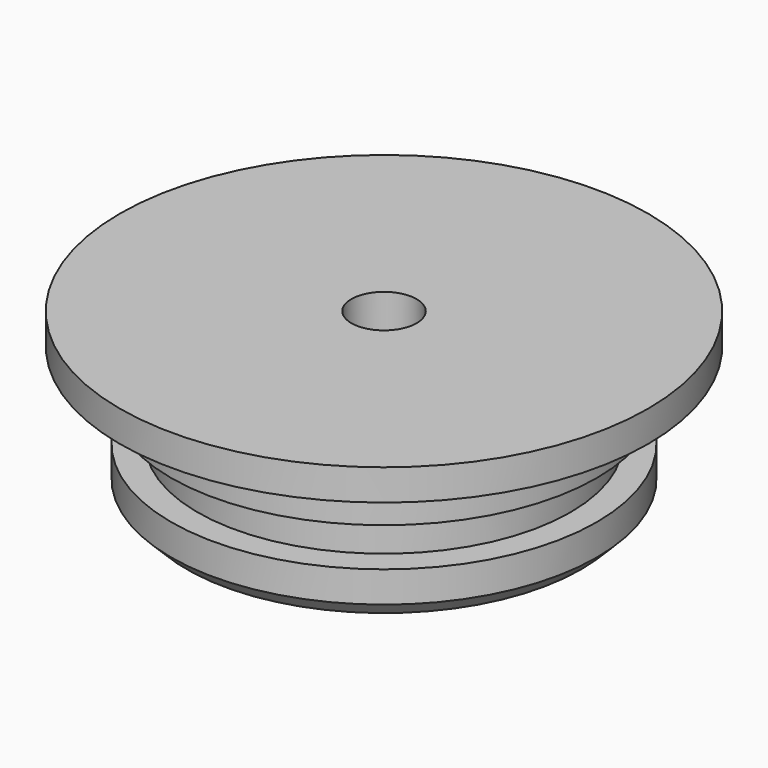
from build123d import *

# Parameters (mm, degrees)
F3_D     = 4.2
F3_DEPTH = 10
F3_TIP   = 1.2618073
F4_SIZE  = 1
F5_SIZE  = 2


with BuildPart() as f1:
    # F0 (on Front) → F1 (revolve)
    with BuildSketch(Plane.XZ):
        Polygon((17, 10.5), (0, 10.5), (0, 5.5), (8, 5.5), (8, 0), (13.7, 0), (13.7, 3), (12, 3), (12, 5.5), (13.7, 5.5), (13.7, 8.5), (17, 8.5), align=None)
    revolve(axis=Axis((0, 0, 19.6601920579), (0, 0, 1)))

    # F3
    with Locations(Plane.XY.offset(10.5)):
        with Locations((0, 0)):
            Hole(F3_D / 2, depth=F3_DEPTH)
            with Locations((0, 0, -(F3_DEPTH + F3_TIP / 2))):  # 118° drill point
                Cone(0, F3_D / 2, F3_TIP, mode=Mode.SUBTRACT)

    # F4
    f4_edges = [f1.edges().sort_by_distance(p)[0] for p in [
        (-13.7, 0, 0),
    ]]
    chamfer(f4_edges, length=F4_SIZE)

    # F5
    f5_edges = [f1.edges().sort_by_distance(p)[0] for p in [
        (-8, 0, 0),
    ]]
    chamfer(f5_edges, length=F5_SIZE)


solid = f1.part
